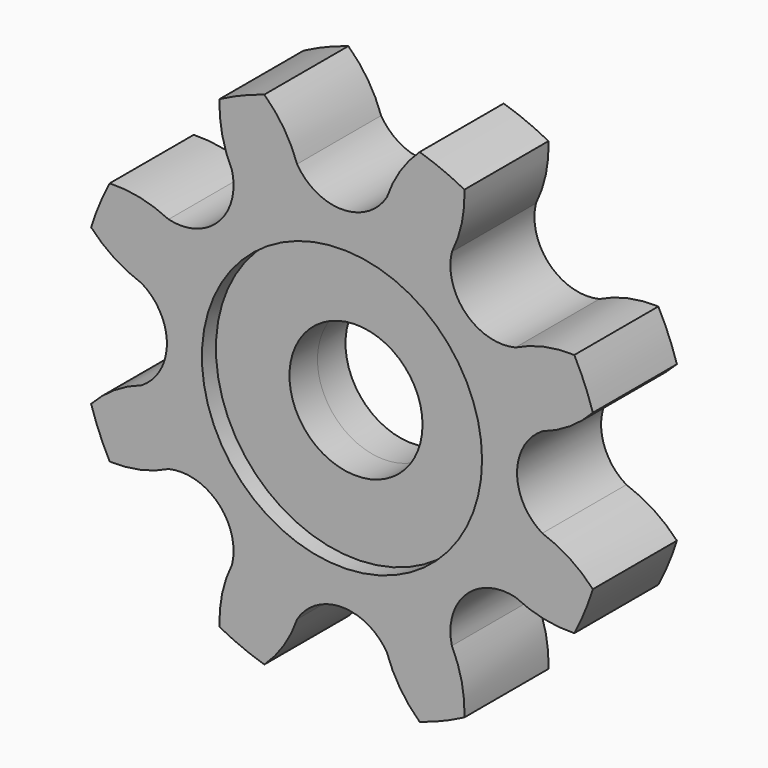
from build123d import *

# Parameters (mm, degrees)
F0_R          = 40
F1_DEPTH      = 15
F1_DEPTH_BACK = 15
F2_R          = 40
F2_R_2        = 19
F3_DEPTH      = 10
F3_DEPTH_BACK = 10


with BuildPart() as f1:
    # F0 (on Front) → F1 (new body, two sides)
    with BuildSketch(Plane.XZ) as f1_sk:
        with BuildLine():
            ThreePointArc((31.389499, 49.517773), (34.23201, 57.708259), (34.974103, 66.346154))
            ThreePointArc((34.974103, 66.346154), (28.701257, 69.290965), (22.18339, 71.644241))
            ThreePointArc((22.18339, 71.644241), (16.600215, 65.011588), (12.818626, 57.210081))
            ThreePointArc((12.818626, 57.210081), (0, 50), (-12.818626, 57.210081))
            ThreePointArc((-12.818626, 57.210081), (-16.600215, 65.011588), (-22.18339, 71.644241))
            ThreePointArc((-22.18339, 71.644241), (-28.701257, 69.290965), (-34.974103, 66.346154))
            ThreePointArc((-34.974103, 66.346154), (-34.23201, 57.708259), (-31.389499, 49.517773))
            ThreePointArc((-31.389499, 49.517773), (-35.355339, 35.355339), (-49.517773, 31.389499))
            ThreePointArc((-49.517773, 31.389499), (-57.708259, 34.23201), (-66.346154, 34.974103))
            ThreePointArc((-66.346154, 34.974103), (-69.290965, 28.701257), (-71.644241, 22.18339))
            ThreePointArc((-71.644241, 22.18339), (-65.011588, 16.600215), (-57.210081, 12.818626))
            ThreePointArc((-57.210081, 12.818626), (-50, 0), (-57.210081, -12.818626))
            ThreePointArc((-57.210081, -12.818626), (-65.011588, -16.600215), (-71.644241, -22.18339))
            ThreePointArc((-71.644241, -22.18339), (-69.290965, -28.701257), (-66.346154, -34.974103))
            ThreePointArc((-66.346154, -34.974103), (-57.708259, -34.23201), (-49.517773, -31.389499))
            ThreePointArc((-49.517773, -31.389499), (-35.355339, -35.355339), (-31.389499, -49.517773))
            ThreePointArc((-31.389499, -49.517773), (-34.23201, -57.708259), (-34.974103, -66.346154))
            ThreePointArc((-34.974103, -66.346154), (-28.701257, -69.290965), (-22.18339, -71.644241))
            ThreePointArc((-22.18339, -71.644241), (-16.600215, -65.011588), (-12.818626, -57.210081))
            ThreePointArc((-12.818626, -57.210081), (0, -50), (12.818626, -57.210081))
            ThreePointArc((12.818626, -57.210081), (16.600215, -65.011588), (22.18339, -71.644241))
            ThreePointArc((22.18339, -71.644241), (28.701257, -69.290965), (34.974103, -66.346154))
            ThreePointArc((34.974103, -66.346154), (34.23201, -57.708259), (31.389499, -49.517773))
            ThreePointArc((31.389499, -49.517773), (35.355339, -35.355339), (49.517773, -31.389499))
            ThreePointArc((49.517773, -31.389499), (57.708259, -34.23201), (66.346154, -34.974103))
            ThreePointArc((66.346154, -34.974103), (69.290965, -28.701257), (71.644241, -22.18339))
            ThreePointArc((71.644241, -22.18339), (65.011588, -16.600215), (57.210081, -12.818626))
            ThreePointArc((57.210081, -12.818626), (50, 0), (57.210081, 12.818626))
            ThreePointArc((57.210081, 12.818626), (65.011588, 16.600215), (71.644241, 22.18339))
            ThreePointArc((71.644241, 22.18339), (69.290965, 28.701257), (66.346154, 34.974103))
            ThreePointArc((66.346154, 34.974103), (57.708259, 34.23201), (49.517773, 31.389499))
            ThreePointArc((49.517773, 31.389499), (35.355339, 35.355339), (31.389499, 49.517773))
        make_face()
        Circle(F0_R, mode=Mode.SUBTRACT)
    extrude(amount=F1_DEPTH)
    extrude(f1_sk.sketch, amount=-F1_DEPTH_BACK)

    # F2 (on Front) → F3 (join, two sides)
    with BuildSketch(Plane.XZ) as f3_sk:
        Circle(F2_R)
        Circle(F2_R_2, mode=Mode.SUBTRACT)
    extrude(amount=F3_DEPTH)
    extrude(f3_sk.sketch, amount=-F3_DEPTH_BACK)


solid = f1.part
